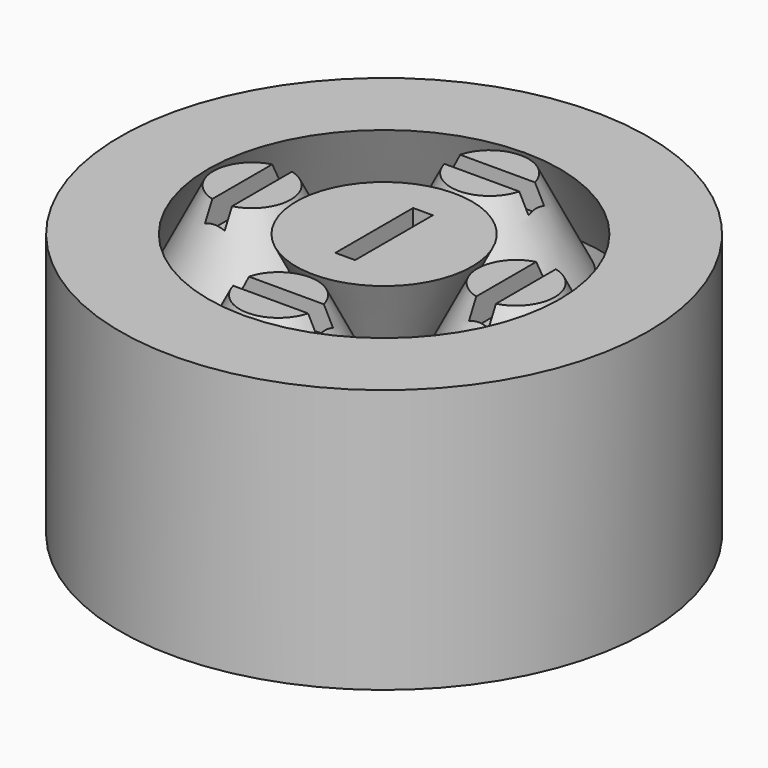
from build123d import *

# Parameters (mm, degrees)
F3_W     = 1.4224
F3_H     = 7.0104
F4_DEPTH = 1.905
F5_W     = 1.4224
F5_H     = 6.731
F6_DEPTH = 1.905
F7_COUNT = 4


with BuildPart() as f1:
    # F0 (on Front) → F1 (revolve)
    with BuildSketch(Plane.XZ):
        Polygon((0, 19.05), (0, 0), (3.175, 0), (6.35, 0), (3.175, 6.35), (3.175, 12.7), (6.35, 19.05), (3.175, 19.05), align=None)
        Polygon((19.05, 19.05), (15.875, 19.05), (12.7, 19.05), (15.875, 12.7), (15.875, 6.35), (12.7, 0), (15.875, 0), (19.05, 0), align=None)
    revolve(axis=Axis((0, 0, 9.525), (0, 0, 1)))

    # F3 (on face) → F4 (cut)
    with BuildSketch(Plane.XY.offset(19.05)):
        Rectangle(F3_W, F3_H)
    extrude(amount=-F4_DEPTH, mode=Mode.SUBTRACT)


with BuildPart() as f2:
    # F0 (on Front) → F2 (revolve)
    with BuildSketch(Plane.XZ):
        Polygon((12.319, 19.05), (9.525, 19.05), (9.525, 0), (12.319, 0), (15.494, 6.35), (15.494, 12.7), align=None)
    revolve(axis=Axis((9.525, 0, 9.525), (0, 0, 1)))

    # F5 (on face) → F6 (cut)
    with BuildSketch(Plane.XY.offset(19.05)):
        with Locations((9.525, 0)):
            Rectangle(F5_W, F5_H)
    extrude(amount=-F6_DEPTH, mode=Mode.SUBTRACT)


with BuildPart() as f7_1:
    # F7: instance of F2
    add(f2.part.rotate(Axis((0, 0, 9.525), (0, 0, 1)), 1 * 360 / F7_COUNT))


with BuildPart() as f7_2:
    # F7: instance of F2
    add(f2.part.rotate(Axis((0, 0, 9.525), (0, 0, 1)), 2 * 360 / F7_COUNT))


with BuildPart() as f7_3:
    # F7: instance of F2
    add(f2.part.rotate(Axis((0, 0, 9.525), (0, 0, 1)), 3 * 360 / F7_COUNT))


solid = Compound([f1.part, f2.part, f7_1.part, f7_2.part, f7_3.part])
